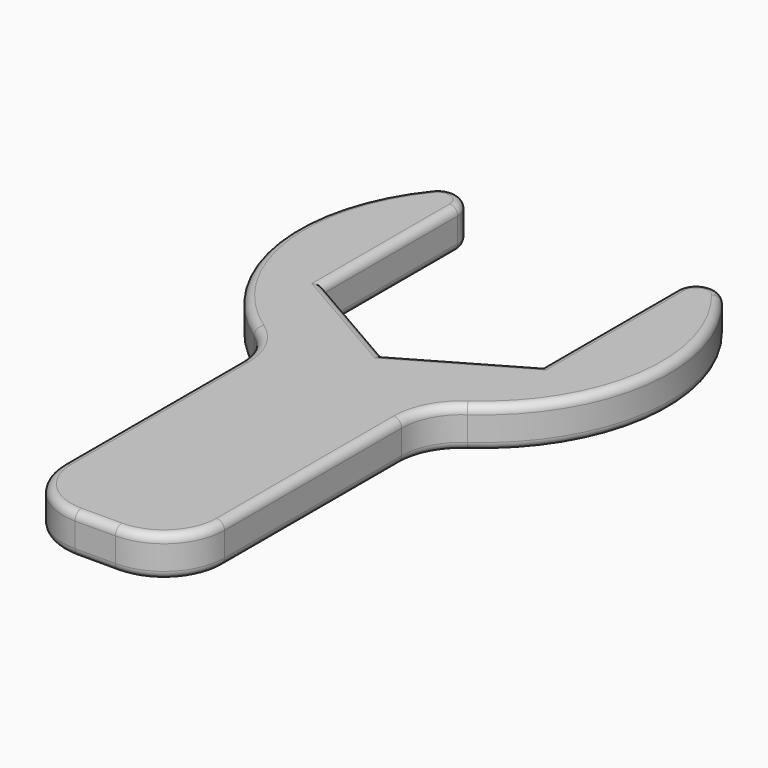
from build123d import *

# Parameters (mm, degrees)
F1_DEPTH = 6.35
F2_R     = 1.27


with BuildPart() as f1:
    # F0 (on Top) → F1 (new body)
    with BuildSketch(Plane.XY):
        with BuildLine():
            Line((17.145, 16.455425), (17.145, 9.89867))
            Line((17.145, 9.89867), (17.145, -9.89867))
            Line((17.145, -9.89867), (0, -19.797341))
            Line((0, -19.797341), (-17.145, -9.89867))
            Line((-17.145, -9.89867), (-17.145, 9.89867))
            Line((-17.145, 9.89867), (-17.145, 16.455425))
            ThreePointArc((-17.145, 16.455425), (-19.260136, 19.448303), (-22.787402, 18.453563))
            ThreePointArc((-22.787402, 18.453563), (-29.033356, -4.106567), (-16.775641, -24.049481))
            ThreePointArc((-16.775641, -24.049481), (-13.780156, -27.455953), (-12.7, -31.861658))
            Line((-12.7, -31.861658), (-12.7, -66.675))
            ThreePointArc((-12.7, -66.675), (-9.910192, -73.410192), (-3.175, -76.2))
            Line((-3.175, -76.2), (3.175, -76.2))
            ThreePointArc((3.175, -76.2), (9.910192, -73.410192), (12.7, -66.675))
            Line((12.7, -66.675), (12.7, -31.861658))
            ThreePointArc((12.7, -31.861658), (13.780156, -27.455953), (16.775641, -24.049481))
            ThreePointArc((16.775641, -24.049481), (29.033356, -4.106567), (22.787402, 18.453563))
            ThreePointArc((22.787402, 18.453563), (19.260136, 19.448303), (17.145, 16.455425))
        make_face()
    extrude(amount=F1_DEPTH)

    # F2
    f2_edges = [f1.edges().sort_by_distance(p)[0] for p in [
        (-13.780156, -27.455953, 6.35),
        (-12.7, -49.268329, 6.35),
        (-9.910192, -73.410192, 6.35),
        (0, -76.2, 6.35),
        (9.910192, -73.410192, 6.35),
        (12.7, -49.268329, 6.35),
        (13.780156, -27.455953, 6.35),
        (29.033356, -4.106567, 6.35),
        (19.260136, 19.448303, 6.35),
        (17.145, 3.278378, 6.35),
        (8.5725, -14.848006, 6.35),
        (-8.5725, -14.848006, 6.35),
        (-17.145, 3.278378, 6.35),
        (-19.260136, 19.448303, 6.35),
        (-29.033356, -4.106567, 6.35),
        (-13.780156, -27.455953, 0),
        (-12.7, -49.268329, 0),
        (-9.910192, -73.410192, 0),
        (0, -76.2, 0),
        (9.910192, -73.410192, 0),
        (12.7, -49.268329, 0),
        (13.780156, -27.455953, 0),
        (29.033356, -4.106567, 0),
        (19.260136, 19.448303, 0),
        (17.145, 3.278378, 0),
        (8.5725, -14.848006, 0),
        (-8.5725, -14.848006, 0),
        (-17.145, 3.278378, 0),
        (-19.260136, 19.448303, 0),
        (-29.033356, -4.106567, 0),
    ]]
    fillet(f2_edges, radius=F2_R)


solid = f1.part
